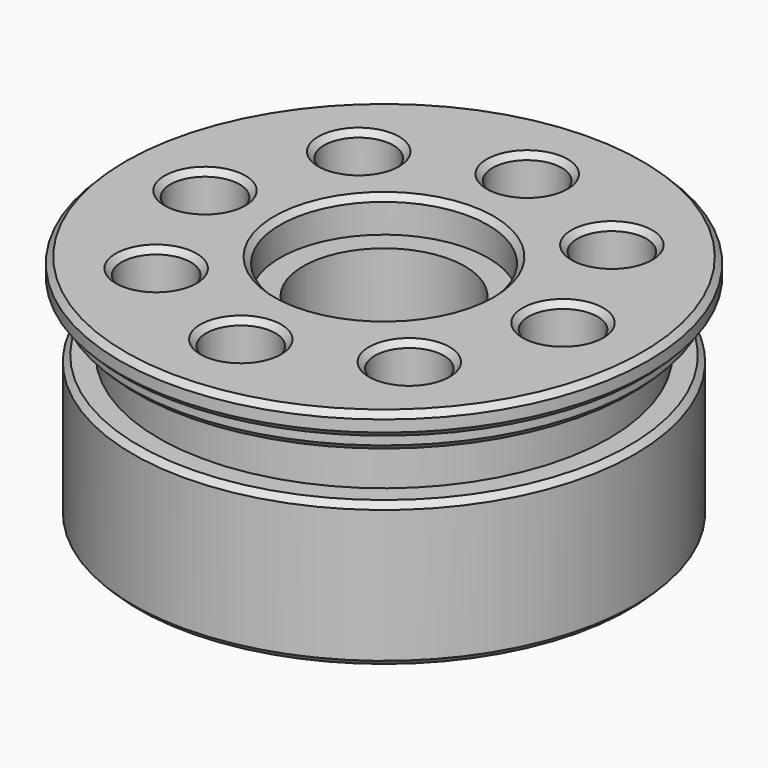
from build123d import *

# Parameters (mm, degrees)
F2_R     = 7
F3_DEPTH = 20.001
F2_R_2   = 3
F4_DEPTH = 15
F2_R_3   = 9
F5_DEPTH = 3
F6_SIZE  = 0.5
F7_SIZE  = 0.5


with BuildPart() as f1:
    # F0 (on Front) → F1 (revolve)
    with BuildSketch(Plane.XZ):
        Polygon((0, -10), (0, 10), (-22.87, 10), (-22.87, 8), (-21.87, 8), (-21.87, 6.5), (-19.5, 6.5), (-19.5, 2.5), (-21.72, 2.5), (-21.72, -10), align=None)
    revolve(axis=Axis((0, 0, 0), (0, 0, -1)))

    # F2 (on face) → F3 (cut, through all)
    with BuildSketch(Plane.XY.offset(10)):
        Circle(F2_R)
    extrude(amount=-F3_DEPTH, mode=Mode.SUBTRACT)

    # F2 (on face) → F4 (cut)
    with BuildSketch(Plane.XY.offset(10)):
        with Locations((-10.960155, 10.960155)):
            Circle(F2_R_2)
        with Locations((10.960155, 10.960155)):
            Circle(F2_R_2)
        with Locations((15.5, 0)):
            Circle(F2_R_2)
        with Locations((10.960155, -10.960155)):
            Circle(F2_R_2)
        with Locations((0, -15.5)):
            Circle(F2_R_2)
        with Locations((-10.960155, -10.960155)):
            Circle(F2_R_2)
        with Locations((-15.5, 0)):
            Circle(F2_R_2)
        with Locations((0, 15.5)):
            Circle(F2_R_2)
    extrude(amount=-F4_DEPTH, mode=Mode.SUBTRACT)

    # F2 (on face) → F5 (cut)
    with BuildSketch(Plane.XY.offset(10)):
        Circle(F2_R_3)
        Circle(F2_R, mode=Mode.SUBTRACT)
    extrude(amount=-F5_DEPTH, mode=Mode.SUBTRACT)

    # F6
    f6_edges = [f1.edges().sort_by_distance(p)[0] for p in [
        (22.87, 0, 10),
        (-13.960155, -10.960155, 10),
        (-3, -15.5, 10),
        (7.960155, -10.960155, 10),
        (-18.5, 0, 10),
        (-13.960155, 10.960155, 10),
        (-9, 0, 10),
        (12.5, 0, 10),
        (-3, 15.5, 10),
        (7.960155, 10.960155, 10),
    ]]
    chamfer(f6_edges, length=F6_SIZE)

    # F7
    f7_edges = [f1.edges().sort_by_distance(p)[0] for p in [
        (22.87, 0, 8),
        (21.87, 0, 6.5),
        (21.72, 0, 2.5),
        (21.72, 0, -10),
    ]]
    chamfer(f7_edges, length=F7_SIZE)


solid = f1.part
